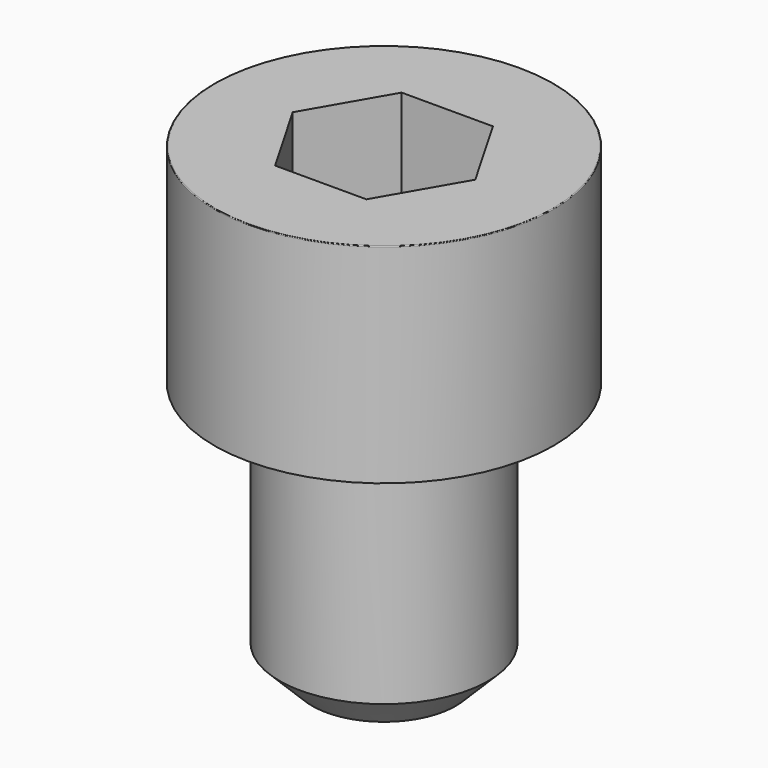
from build123d import *

# Parameters (mm, degrees)
POCKET_DEPTH = 6.06


with BuildPart() as part:
    # Sketch → Revolve (revolve)
    with BuildSketch(Plane.YZ):
        with BuildLine():
            Line((3.999, 0), (6.5, 0))
            Line((6.5, 0), (6.5, 7.97229))
            ThreePointArc((6.5, 7.97229), (6.491884, 7.991884), (6.47229, 8))
            Line((6.47229, 8), (0, 8))
            Line((0, -10), (0, 8))
            Line((2.75, -10), (0, -10))
            Line((4, -8.75), (2.75, -10))
            Line((4, -0.2), (4, -8.75))
            Line((3.999, 0), (4, -0.2))
        make_face()
    revolve(axis=Axis((0, 0, 0), (0, 0, 1)))

    # Sketch001 → Pocket (cut)
    with BuildSketch(Plane.XY.offset(8)):
        Polygon((3.498743, 0), (1.749371, 3.03), (-1.749371, 3.03), (-3.498743, 0), (-1.749371, -3.03), (1.749371, -3.03), align=None)
    extrude(amount=-POCKET_DEPTH, mode=Mode.SUBTRACT)


solid = part.part
